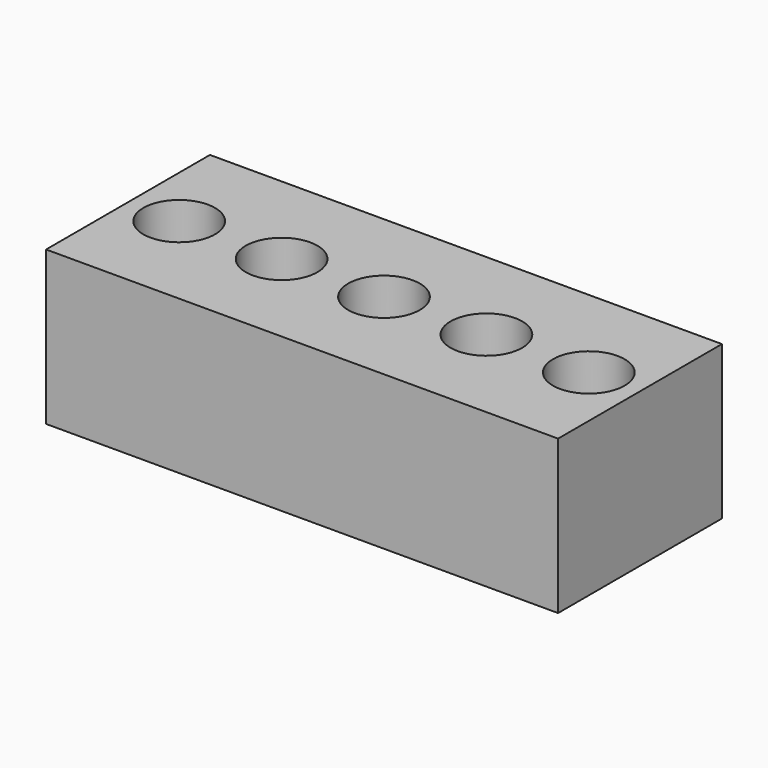
from build123d import *

# Parameters (mm, degrees)
F1_DEPTH = 150


with BuildPart() as f1:
    # F0 (on Top) → F1 (new body)
    with BuildSketch(Plane.XY):
        with BuildLine():
            Line((-381.968483, 0), (-381.968483, -100))
            Line((-381.968483, -100), (118.031517, -100))
            Line((118.031517, -100), (118.031517, 0))
            Line((118.031517, 0), (103.031517, 0))
            ThreePointArc((103.031517, 0), (68.031517, -35), (33.031517, 0))
            Line((33.031517, 0), (3.031517, 0))
            ThreePointArc((3.031517, 0), (-31.968483, -35), (-66.968483, 0))
            Line((-66.968483, 0), (-96.968483, 0))
            ThreePointArc((-96.968483, 0), (-131.968483, -35), (-166.968483, 0))
            Line((-166.968483, 0), (-196.968483, 0))
            ThreePointArc((-196.968483, 0), (-231.968483, -35), (-266.968483, 0))
            Line((-266.968483, 0), (-296.968483, 0))
            ThreePointArc((-296.968483, 0), (-331.968483, -35), (-366.968483, 0))
            Line((-366.968483, 0), (-381.968483, 0))
        make_face()
        with BuildLine():
            Line((-381.968483, 100), (-381.968483, 0))
            Line((-381.968483, 0), (-366.968483, 0))
            ThreePointArc((-366.968483, 0), (-331.968483, 35), (-296.968483, 0))
            Line((-296.968483, 0), (-266.968483, 0))
            ThreePointArc((-266.968483, 0), (-231.968483, 35), (-196.968483, 0))
            Line((-196.968483, 0), (-166.968483, 0))
            ThreePointArc((-166.968483, 0), (-131.968483, 35), (-96.968483, 0))
            Line((-96.968483, 0), (-66.968483, 0))
            ThreePointArc((-66.968483, 0), (-31.968483, 35), (3.031517, 0))
            Line((3.031517, 0), (33.031517, 0))
            ThreePointArc((33.031517, 0), (68.031517, 35), (103.031517, 0))
            Line((103.031517, 0), (118.031517, 0))
            Line((118.031517, 0), (118.031517, 100))
            Line((118.031517, 100), (-381.968483, 100))
        make_face()
    extrude(amount=F1_DEPTH)


solid = f1.part
